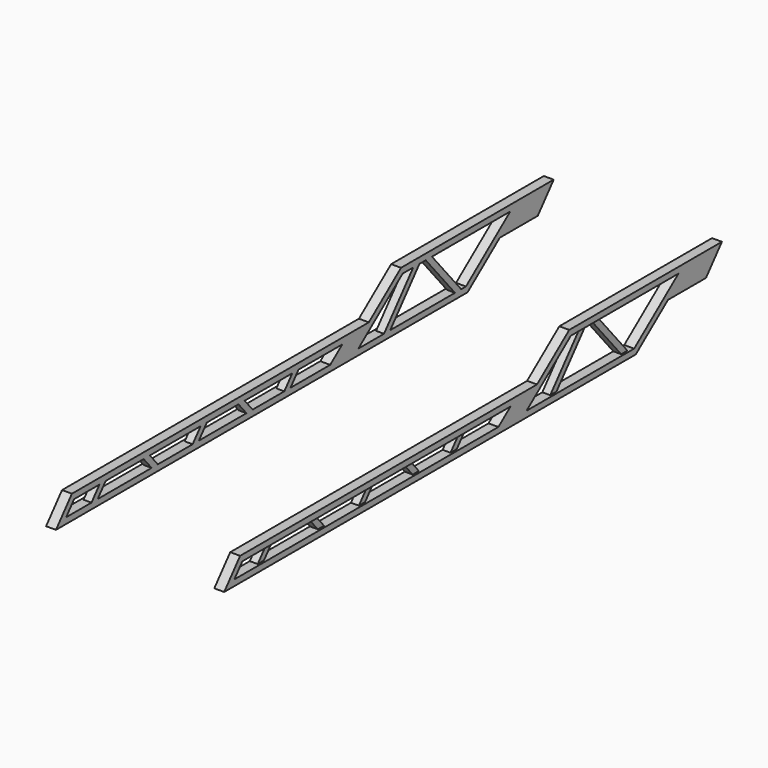
from build123d import *

# Parameters (mm, degrees)
F1_DEPTH = 63.5
F3_DEPTH = 12.7
F5_DEPTH = 50.8


with BuildPart() as f1:
    # F0 (on Right) → F1 (new body)
    with BuildSketch(Plane.YZ):
        Polygon((-1562.9458051886, 510.8066391747), (-1690.82458898, 358.4066391747), (1611.17541102, 358.4066391747), (1869.5545340028, 561.6066391747), (2174.3545340028, 561.6066391747), (2302.2333177942, 714.0066391747), (1077.2100303276, 714.0066391747), (818.8309073448, 510.8066391747), align=None)
    extrude(amount=F1_DEPTH)

    # F2 (on face) → F3 (cut)
    with BuildSketch(Plane.YZ.offset(63.5)):
        Polygon((1090.3969976379, 675.9066391747), (832.0178746551, 472.7066391747), (735.1257035365, 396.5066391747), (1597.9884437098, 396.5066391747), (1953.2597378111, 675.9066391747), align=None)
        Polygon((606.0300141335, 472.7066391747), (-1545.1794834129, 472.7066391747), (-1609.1188753086, 396.5066391747), (509.1378430149, 396.5066391747), align=None)
    extrude(amount=-F3_DEPTH, mode=Mode.SUBTRACT)

    # F4 (on face) → F5 (cut, through all)
    with BuildSketch(Plane.YZ.offset(50.8)):
        Polygon((735.1257035365, 396.5066391747), (940.7275343608, 396.5066391747), (1175.1719713117, 675.9066391747), (1090.3969976379, 675.9066391747), align=None)
        Polygon((1224.9079890353, 675.9066391747), (990.4635520843, 396.5066391747), (1510.1524259862, 396.5066391747), (1275.7079890353, 675.9066391747), align=None)
        Polygon((1325.4440067588, 675.9066391747), (1559.8884437098, 396.5066391747), (1597.9884437098, 396.5066391747), (1953.2597378111, 675.9066391747), align=None)
        Polygon((606.0300141335, 472.7066391747), (254.6581727878, 472.7066391747), (190.718780892, 396.5066391747), (509.1378430149, 396.5066391747), align=None)
        Polygon((204.9221550642, 472.7066391747), (-176.9566287272, 472.7066391747), (-113.0172368315, 396.5066391747), (140.9827631685, 396.5066391747), align=None)
        Polygon((-226.6926464508, 472.7066391747), (-480.6926464508, 472.7066391747), (-544.6320383465, 396.5066391747), (-162.7532545551, 396.5066391747), align=None)
        Polygon((-1341.9794834129, 472.7066391747), (-1545.1794834129, 472.7066391747), (-1609.1188753086, 396.5066391747), (-1405.9188753086, 396.5066391747), align=None)
        Polygon((-987.4434656893, 472.7066391747), (-1292.2434656893, 472.7066391747), (-1356.182857585, 396.5066391747), (-923.5040737936, 396.5066391747), align=None)
        Polygon((-530.4286641743, 472.7066391747), (-937.7074479658, 472.7066391747), (-873.76805607, 396.5066391747), (-594.36805607, 396.5066391747), align=None)
    extrude(amount=-F5_DEPTH, mode=Mode.SUBTRACT)


with BuildPart() as f7_1:
    # F7: instance of F1
    add(f1.part.mirror(Plane.YZ.offset(-508)))


solid = Compound([f1.part, f7_1.part])
